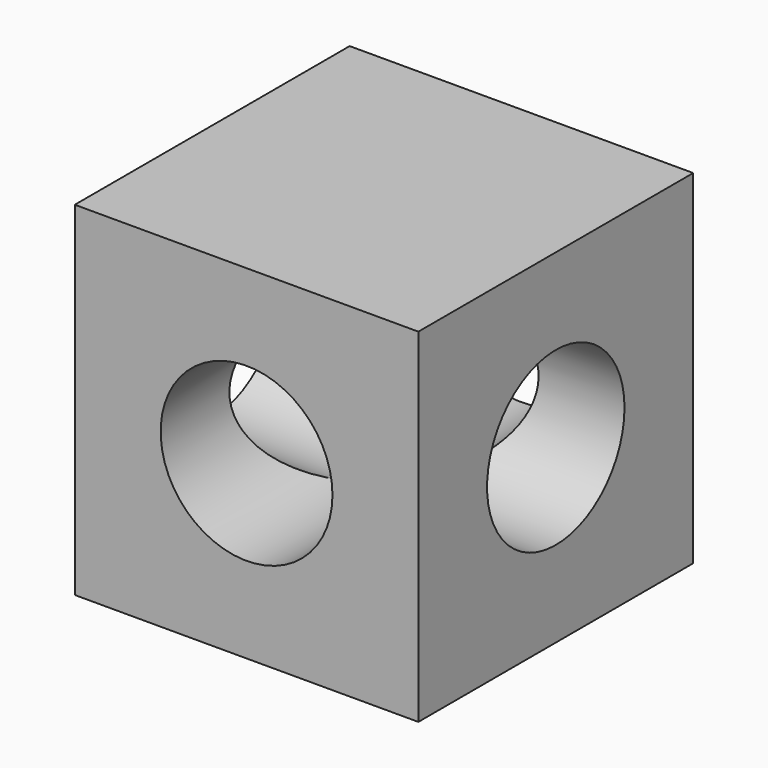
from build123d import *

# Parameters (mm, degrees)
F0_W       = 42.8752
F0_H       = 42.8752
F0_R       = 10.7188
F1_DEPTH   = 42.8752
F2_R       = 10.7188
F1_FACE1_W = 42.8752
F1_FACE1_H = 42.8752
F3_DEPTH   = 79.248


with BuildPart() as f1:
    # F0 (on Front) → F1 (new body)
    with BuildSketch(Plane.XZ):
        Rectangle(F0_W, F0_H)
        Circle(F0_R, mode=Mode.SUBTRACT)
    extrude(amount=F1_DEPTH)

    # F2 (on face) + F1_face1 (on face) → F3 (cut)
    with BuildSketch(Plane.YZ.offset(21.4376)):
        with Locations((-21.4376, 0)):
            Circle(F2_R)
    with BuildSketch(Plane(origin=(-21.4376, -21.4376, 0), x_dir=(0, -1, 0), z_dir=(-1, 0, 0))):
        Rectangle(F1_FACE1_W, F1_FACE1_H)
    extrude(amount=-F3_DEPTH, dir=(1, 0, 0), mode=Mode.SUBTRACT)


solid = f1.part
